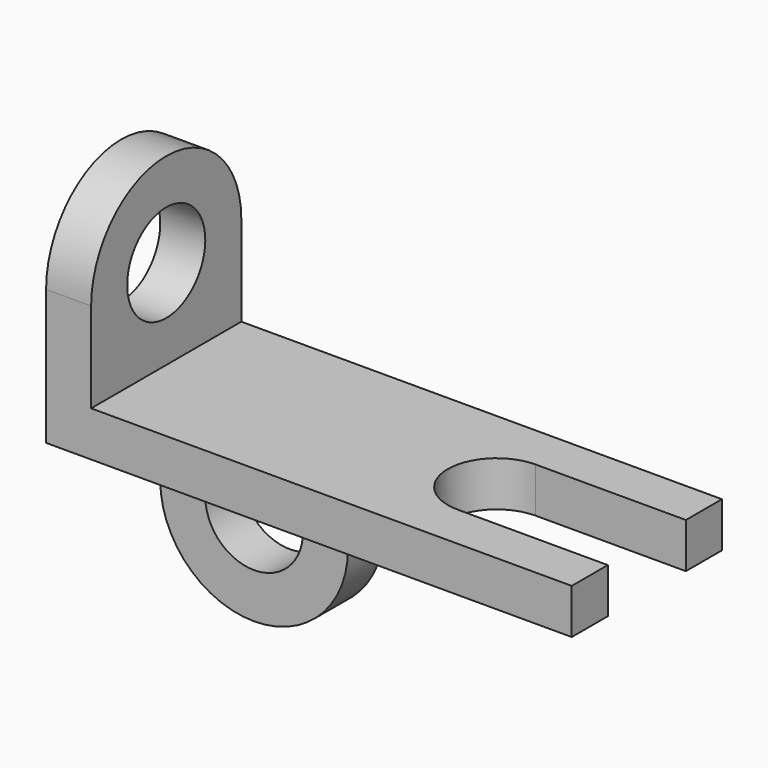
from build123d import *

# Parameters (mm, degrees)
F1_DEPTH = 6
F3_DEPTH = 6
F5_DEPTH = 6


with BuildPart() as f1:
    # F0 (on Top) → F1 (new body)
    with BuildSketch(Plane.XY):
        with BuildLine():
            Line((64, 0), (0, 0))
            Line((0, 0), (0, -25))
            Line((0, -25), (64, -25))
            Line((64, -25), (64, -19))
            Line((64, -19), (44, -19))
            ThreePointArc((44, -19), (37.5, -12.5), (44, -6))
            Line((44, -6), (64, -6))
            Line((64, -6), (64, 0))
        make_face()
    extrude(amount=F1_DEPTH)

    # F2 (on face) → F3 (join)
    with BuildSketch(Plane(origin=(0, 0, 0), x_dir=(0, -1, 0), z_dir=(-1, 0, 0))):
        with BuildLine():
            Line((0, 0), (25, 0))
            Line((25, 0), (25, 18))
            ThreePointArc((25, 18), (12.5, 5.5), (0, 18))
            Line((0, 18), (0, 0))
        make_face()
        with BuildLine():
            ThreePointArc((0, 18), (12.5, 5.5), (25, 18))
            Line((25, 18), (19, 18))
            ThreePointArc((19, 18), (12.5, 11.5), (6, 18))
            Line((6, 18), (0, 18))
        make_face()
        with BuildLine():
            Line((19, 18), (25, 18))
            ThreePointArc((25, 18), (12.5, 30.5), (0, 18))
            Line((0, 18), (6, 18))
            ThreePointArc((6, 18), (12.5, 24.5), (19, 18))
        make_face()
    extrude(amount=F3_DEPTH)

    # F4 (on face) → F5 (join)
    with BuildSketch(Plane(origin=(0, 0, 0), x_dir=(-1, 0, 0), z_dir=(0, 1, 0))):
        with BuildLine():
            Line((6, -12.0803898498), (6, 5.9196101502))
            Line((6, 5.9196101502), (-19, 5.9196101502))
            Line((-19, 5.9196101502), (-19, -12.0803898498))
            ThreePointArc((-19, -12.0803898498), (-6.5, 0.4196101502), (6, -12.0803898498))
        make_face()
        with BuildLine():
            ThreePointArc((-19, -12.0803898498), (-6.5, -24.5803898498), (6, -12.0803898498))
            Line((6, -12.0803898498), (0, -12.0803898498))
            ThreePointArc((0, -12.0803898498), (-6.5, -18.5803898498), (-13, -12.0803898498))
            Line((-13, -12.0803898498), (-19, -12.0803898498))
        make_face()
        with BuildLine():
            Line((0, -12.0803898498), (6, -12.0803898498))
            ThreePointArc((6, -12.0803898498), (-6.5, 0.4196101502), (-19, -12.0803898498))
            Line((-19, -12.0803898498), (-13, -12.0803898498))
            ThreePointArc((-13, -12.0803898498), (-6.5, -5.5803898498), (0, -12.0803898498))
        make_face()
    extrude(amount=-F5_DEPTH)


solid = f1.part
